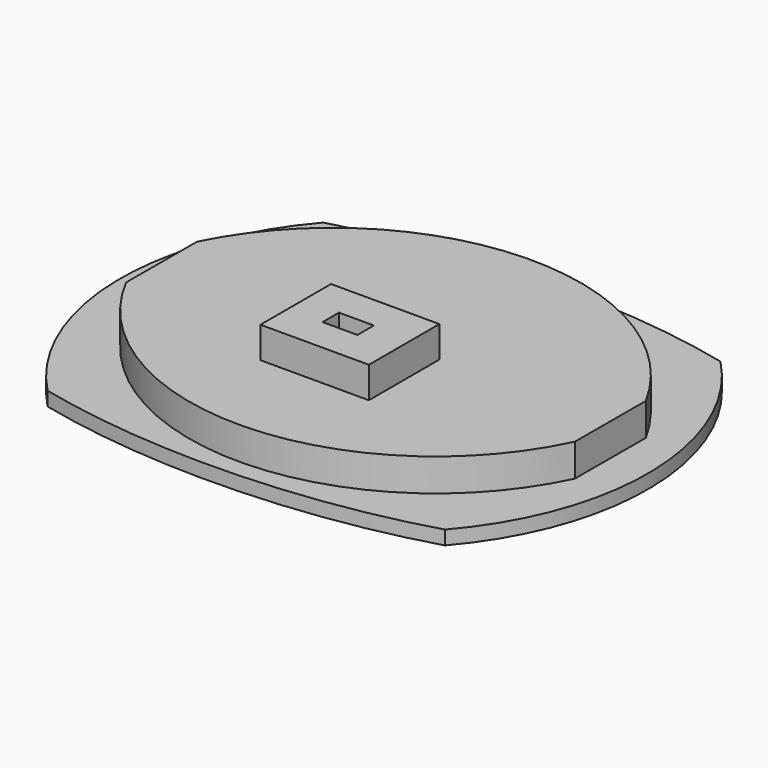
from build123d import *

# Parameters (mm, degrees)
F1_DEPTH = 10
F2_DEPTH = 3
F3_W     = 70
F3_H     = 11.2
F4_DEPTH = 7
F5_W     = 23.3048796654
F5_H     = 18.9512204379
F5_W_2   = 7.5
F5_H_2   = 4.4
F6_DEPTH = 9.72
F7_DEPTH = 25


with BuildPart() as f1:
    # F0 (on Top) → F1 (new body)
    with BuildSketch(Plane.XY):
        with BuildLine():
            ThreePointArc((48.3699485287, 9.9050772031), (0.3020996759, 37.90300692), (-46.6353931233, 8.0487956344))
            Line((-46.6353931233, 8.0487956344), (-46.686543786, -10.9511355131))
            ThreePointArc((-46.686543786, -10.9511355131), (1.3919508256, -39.4939200459), (48.318797866, -9.0948539444))
            Line((48.318797866, -9.0948539444), (48.3699485287, 9.9050772031))
        make_face()
    extrude(amount=F1_DEPTH)

    # F3 (on face) → F4 (cut)
    with BuildSketch(Plane(origin=(0, 0, 0), x_dir=(1, 0, 0), z_dir=(0, 0, -1))):
        with Locations((-1.4346569404, 9.8187506333)):
            Rectangle(F3_W, F3_H)
    extrude(amount=-F4_DEPTH, mode=Mode.SUBTRACT)

    # F5 (on face) → F6 (join)
    with BuildSketch(Plane(origin=(0, 0, 7), x_dir=(1, 0, 0), z_dir=(0, 0, -1))):
        with Locations((0.2560969442, 9.4756102189)):
            Rectangle(F5_W, F5_H)
        with Locations((-0.1101304754, 9.4869323194)):
            Rectangle(F5_W_2, F5_H_2, mode=Mode.SUBTRACT)
    extrude(amount=-F6_DEPTH)

    # F7 (cut): a face of the model
    f7_faces = [f1.faces().sort_by_distance(p)[0] for p in [
        (-0.1101304754, -9.4869323194, 10),
    ]]
    extrude(f7_faces, amount=-F7_DEPTH, mode=Mode.SUBTRACT)


with BuildPart() as f2:
    # F0 (on Top) → F2 (new body)
    with BuildSketch(Plane.XY):
        with BuildLine():
            ThreePointArc((-42.845539618, 37.1958105908), (-56.7183506808, -1.5156802814), (-40.7978468614, -39.4310066082))
            add(Edge.make_bspline(
                [(-40.7978468614, -39.4310066082), (1.3221603939, -49.4766328995), (42.845539618, -37.1958105908)],
                knots=[4.2174235222, 4.2174235222, 4.2174235222, 5.2073544386, 5.2073544386, 5.2073544386], degree=2, weights=[1, 0.8799851178, 1]))
            ThreePointArc((42.845539618, -37.1958105908), (56.7183506808, 1.5156802814), (40.7978468614, 39.4310066082))
            add(Edge.make_bspline(
                [(40.7978468614, 39.4310066082), (-1.3221603939, 49.4766328995), (-42.845539618, 37.1958105908)],
                knots=[1.0758308686, 1.0758308686, 1.0758308686, 2.065761785, 2.065761785, 2.065761785], degree=2, weights=[1, 0.8799851178, 1]))
        make_face()
        with BuildLine():
            Line((-46.686543786, -10.9511355131), (-46.6353931233, 8.0487956344))
            ThreePointArc((-46.6353931233, 8.0487956344), (0.3020996759, 37.90300692), (48.3699485287, 9.9050772031))
            Line((48.3699485287, 9.9050772031), (48.318797866, -9.0948539444))
            ThreePointArc((48.318797866, -9.0948539444), (1.3919508256, -39.4939200459), (-46.686543786, -10.9511355131))
        make_face(mode=Mode.SUBTRACT)
    extrude(amount=F2_DEPTH)


solid = Compound([f1.part, f2.part])
